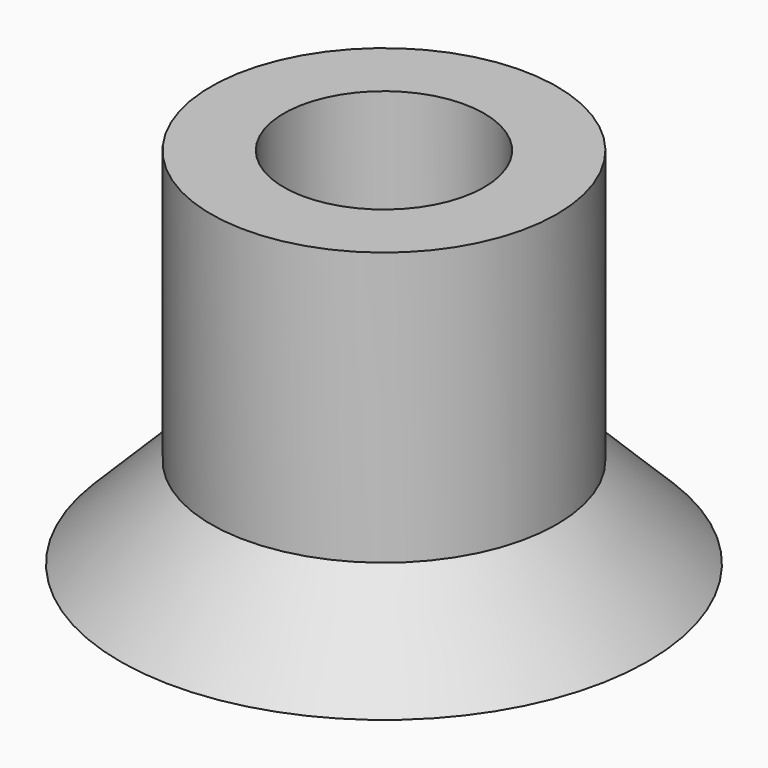
from build123d import *


with BuildPart() as part:
    # Sketch → Revolution (revolve)
    with BuildSketch(Plane.XZ):
        Polygon((2.75, 0), (2.75, 10), (4.75, 10), (4.75, 2.5), (7.25, 0), align=None)
    revolve(axis=Axis((0, 0, 0), (0, 0, 1)))


solid = part.part
